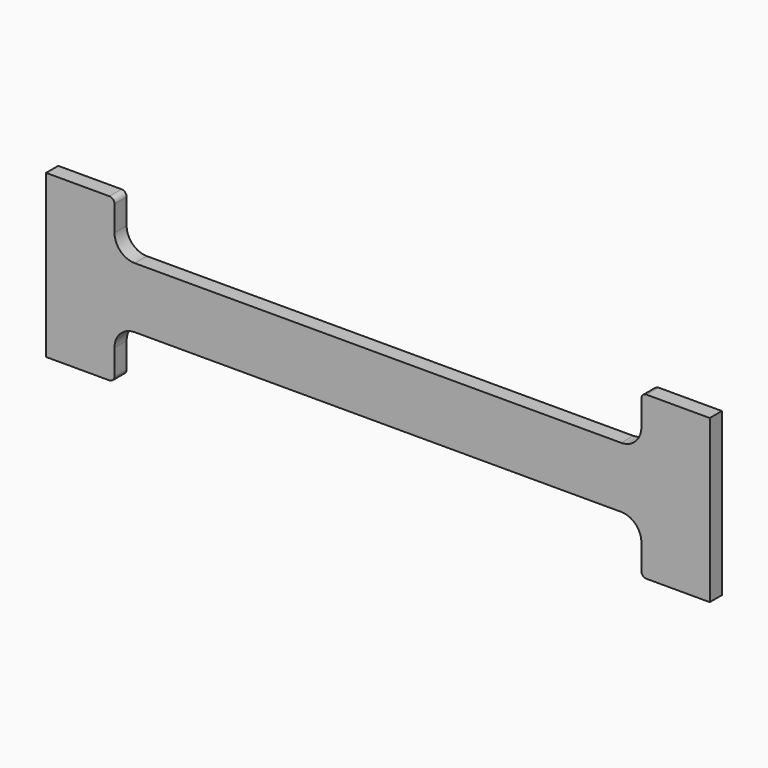
from build123d import *

# Parameters (mm, degrees)
F1_DEPTH = 19.05


with BuildPart() as f1:
    # F0 (on Front) → F1 (new body)
    with BuildSketch(Plane.XZ):
        with BuildLine():
            Line((-752.475, 203.2), (-831.85, 203.2))
            Line((-831.85, 203.2), (-831.85, 0))
            Line((-831.85, 0), (-752.475, 0))
            ThreePointArc((-752.475, 0), (-747.984872, 1.859872), (-746.125, 6.35))
            Line((-746.125, 6.35), (-746.125, 38.1))
            ThreePointArc((-746.125, 38.1), (-738.685512, 56.060512), (-720.725, 63.5))
            Line((-720.725, 63.5), (-111.125, 63.5))
            ThreePointArc((-111.125, 63.5), (-93.164488, 56.060512), (-85.725, 38.1))
            Line((-85.725, 38.1), (-85.725, 6.35))
            ThreePointArc((-85.725, 6.35), (-83.865128, 1.859872), (-79.375, 0))
            Line((-79.375, 0), (0, 0))
            Line((0, 0), (0, 203.2))
            Line((0, 203.2), (-79.375, 203.2))
            ThreePointArc((-79.375, 203.2), (-83.865128, 201.340128), (-85.725, 196.85))
            Line((-85.725, 196.85), (-85.725, 165.1))
            ThreePointArc((-85.725, 165.1), (-93.164488, 147.139488), (-111.125, 139.7))
            Line((-111.125, 139.7), (-720.725, 139.7))
            ThreePointArc((-720.725, 139.7), (-738.685512, 147.139488), (-746.125, 165.1))
            Line((-746.125, 165.1), (-746.125, 196.85))
            ThreePointArc((-746.125, 196.85), (-747.984872, 201.340128), (-752.475, 203.2))
        make_face()
    extrude(amount=F1_DEPTH)


solid = f1.part
